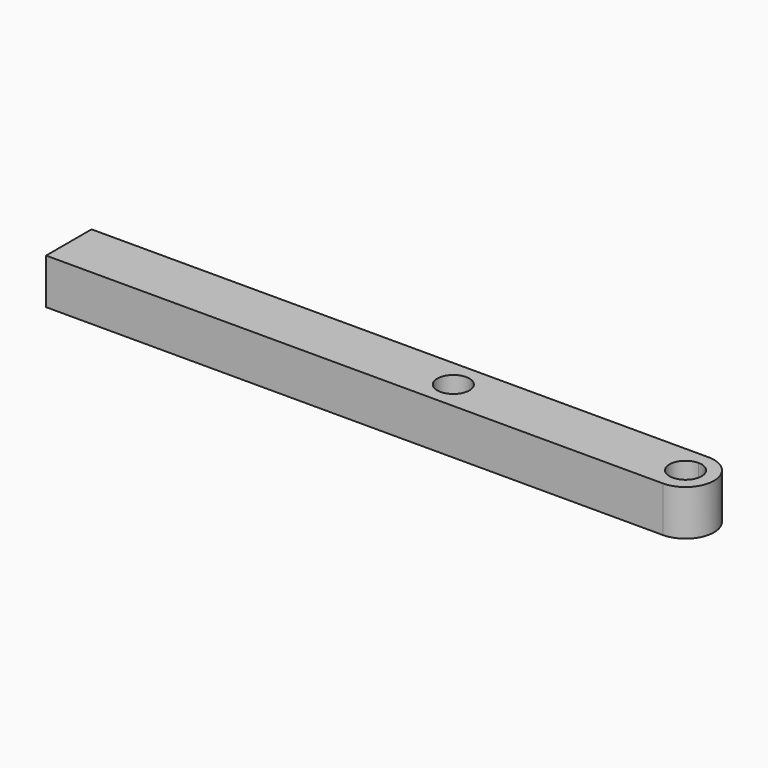
from build123d import *

# Parameters (mm, degrees)
F0_R     = 2.2479
F1_DEPTH = 6.35


with BuildPart() as f1:
    # F0 (on Top) → F1 (new body)
    with BuildSketch(Plane.XY):
        with BuildLine():
            ThreePointArc((0, 2.2479), (1.589505, 1.589505), (2.2479, 0))
            ThreePointArc((2.2479, 0), (1.589505, -1.589505), (0, -2.2479))
            Line((0, -2.2479), (0, -3.96875))
            ThreePointArc((0, -3.96875), (3.96875, 0), (0, 3.96875))
            Line((0, 3.96875), (0, 2.2479))
        make_face()
        with BuildLine():
            ThreePointArc((0, -2.2479), (-2.2479, 0), (0, 2.2479))
            Line((0, 2.2479), (0, 3.96875))
            Line((0, 3.96875), (-86.148189, 3.96875))
            Line((-86.148189, 3.96875), (-86.148189, -3.96875))
            Line((-86.148189, -3.96875), (0, -3.96875))
            Line((0, -3.96875), (0, -2.2479))
        make_face()
        with Locations((-32.438553, 0)):
            Circle(F0_R, mode=Mode.SUBTRACT)
    extrude(amount=F1_DEPTH)


solid = f1.part
